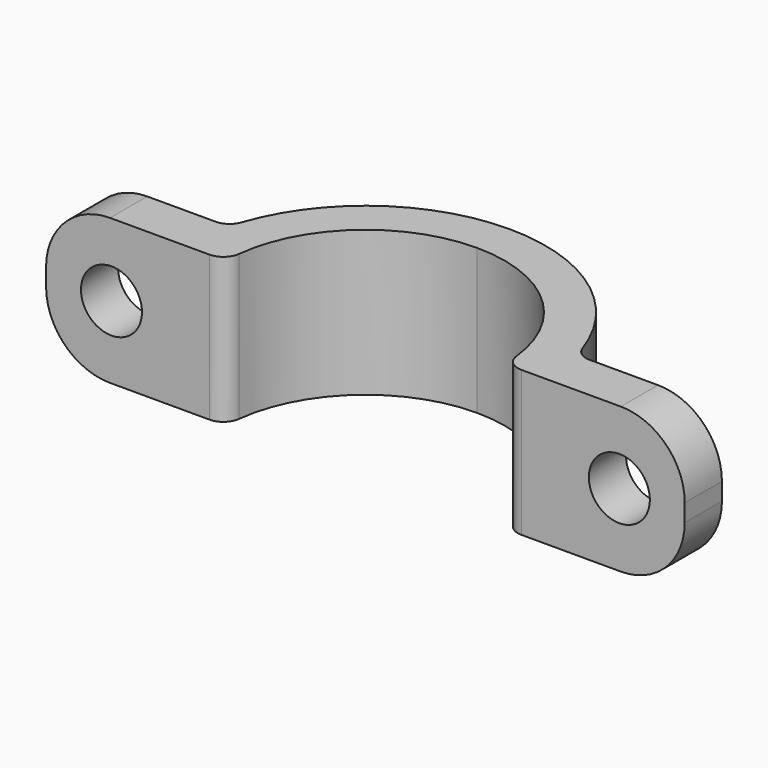
from build123d import *

# Parameters (mm, degrees)
F1_DEPTH = 25
F2_R     = 11
F3_R     = 3
F4_R     = 3
F6_D     = 10.5


with BuildPart() as f1:
    # F0 (on Top) → F1 (new body)
    with BuildSketch(Plane.XY):
        with BuildLine():
            ThreePointArc((-42.475013, 13.076226), (-42.211382, 17.110535), (-41.424972, 21.076226))
            Line((-41.424972, 21.076226), (-66.424972, 21.076226))
            Line((-66.424972, 21.076226), (-66.424972, 13.076226))
            Line((-66.424972, 13.076226), (-42.475013, 13.076226))
        make_face()
        with BuildLine():
            Line((43.474945, 21.076226), (18.474945, 21.076226))
            ThreePointArc((18.474945, 21.076226), (19.261355, 17.110535), (19.524987, 13.076226))
            Line((19.524987, 13.076226), (43.474945, 13.076226))
            Line((43.474945, 13.076226), (43.474945, 21.076226))
        make_face()
        with BuildLine():
            ThreePointArc((18.474945, 21.076226), (7.406194, 37.662808), (-11.475013, 44.076226))
            ThreePointArc((-11.475013, 44.076226), (-30.356221, 37.662808), (-41.424972, 21.076226))
            ThreePointArc((-41.424972, 21.076226), (-42.211382, 17.110535), (-42.475013, 13.076226))
            Line((-42.475013, 13.076226), (-35.475013, 13.076226))
            ThreePointArc((-35.475013, 13.076226), (-28.445576, 30.046789), (-11.475013, 37.076226))
            ThreePointArc((-11.475013, 37.076226), (5.495549, 30.046789), (12.524987, 13.076226))
            Line((12.524987, 13.076226), (19.524987, 13.076226))
            ThreePointArc((19.524987, 13.076226), (19.261355, 17.110535), (18.474945, 21.076226))
        make_face()
    extrude(amount=F1_DEPTH)

    # F2
    f2_edges = [f1.edges().sort_by_distance(p)[0] for p in [
        (43.474945, 17.076226, 0),
        (43.474945, 17.076226, 25),
        (-66.424972, 17.076226, 25),
        (-66.424972, 17.076226, 0),
    ]]
    fillet(f2_edges, radius=F2_R)

    # F3
    f3_edges = [f1.edges().sort_by_distance(p)[0] for p in [
        (-35.475013, 13.076226, 12.5),
        (12.524987, 13.076226, 12.5),
    ]]
    fillet(f3_edges, radius=F3_R)

    # F4
    f4_edges = [f1.edges().sort_by_distance(p)[0] for p in [
        (-41.424972, 21.076226, 12.5),
        (18.474945, 21.076226, 12.5),
    ]]
    fillet(f4_edges, radius=F4_R)

    # F6 (through all)
    with Locations(Plane(origin=(0, 21.076226, 0), x_dir=(-1, 0, 0), z_dir=(0, 1, 0))):
        with Locations((55.174972, 12.5), (-32.224945, 12.5)):
            Hole(F6_D / 2)


solid = f1.part
